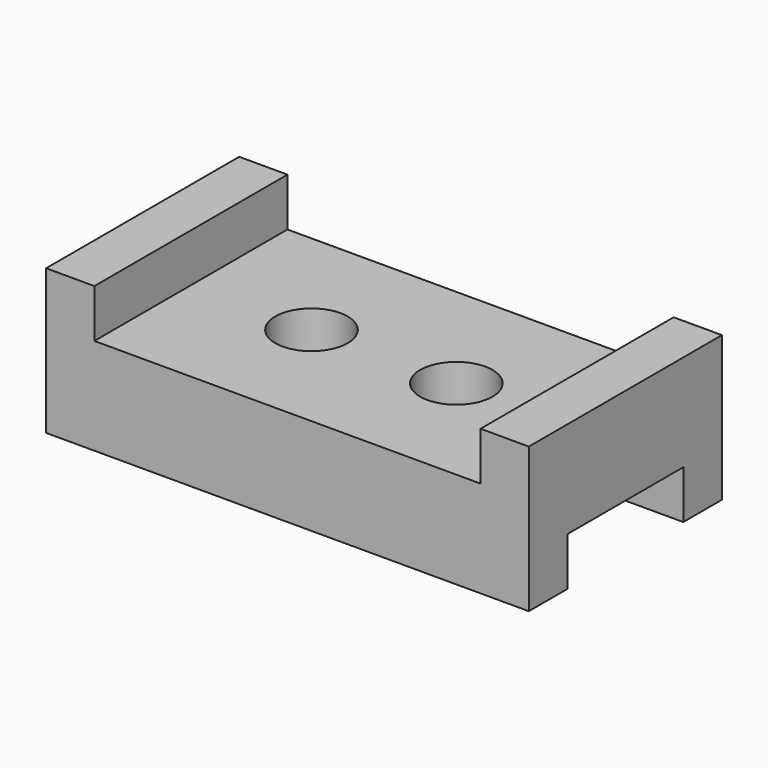
from build123d import *

# Parameters (mm, degrees)
F1_DEPTH = 63.5
F2_W     = 38.1
F2_H     = 12.702099
F3_DEPTH = 127
F4_R     = 9.525
F4_R_2   = 9.533011
F5_DEPTH = 38.1


with BuildPart() as f1:
    # F0 (on Front) → F1 (new body)
    with BuildSketch(Plane.XZ):
        Polygon((-63.5, 0), (0, 0), (63.5, 0), (63.5, 38.135472), (50.8, 38.135472), (50.8, 25.426184), (0, 25.426184), (-50.8, 25.426184), (-50.8, 38.135472), (-63.5, 38.135472), align=None)
    extrude(amount=F1_DEPTH)

    # F2 (on face) → F3 (cut)
    with BuildSketch(Plane.YZ.offset(63.5)):
        with Locations((-31.760516, 6.351049)):
            Rectangle(F2_W, F2_H)
    extrude(amount=-F3_DEPTH, mode=Mode.SUBTRACT)

    # F4 (on face) → F5 (cut)
    with BuildSketch(Plane.XY.offset(25.426184)):
        with Locations((-19.06892, -31.762339)):
            Circle(F4_R)
        with Locations((19.041387, -31.762339)):
            Circle(F4_R_2)
    extrude(amount=-F5_DEPTH, mode=Mode.SUBTRACT)


solid = f1.part
